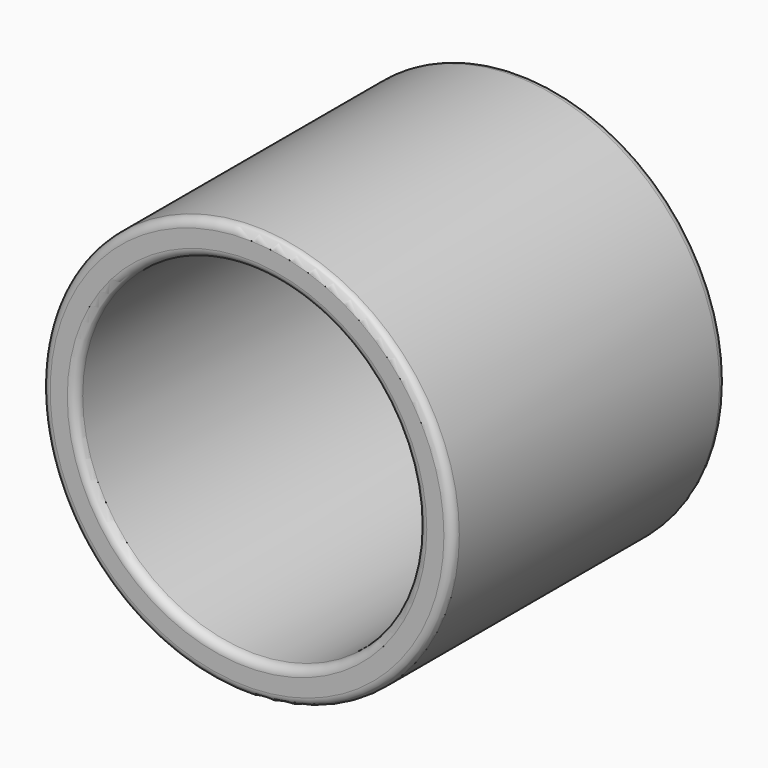
from build123d import *

# Parameters (mm, degrees)
F0_R     = 6
F0_R_2   = 5
F1_DEPTH = 5
F2_R     = 0.25


with BuildPart() as f1:
    # F0 (on Front) → F1 (new body, symmetric)
    with BuildSketch(Plane.XZ):
        Circle(F0_R)
        Circle(F0_R_2, mode=Mode.SUBTRACT)
    extrude(amount=F1_DEPTH, both=True)

    # F2
    f2_edges = [f1.edges().sort_by_distance(p)[0] for p in [
        (-6, -5, 0),
        (-5, -5, 0),
        (-6, 5, 0),
        (-5, 5, 0),
    ]]
    fillet(f2_edges, radius=F2_R)


solid = f1.part
